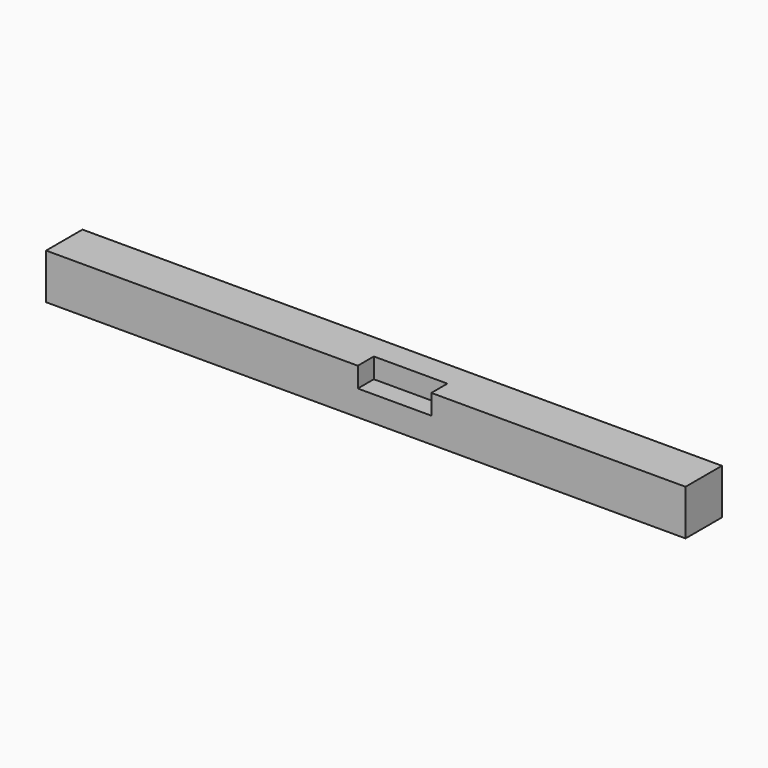
from build123d import *

# Parameters (mm, degrees)
F0_W     = 34
F0_H     = 34
F1_DEPTH = 478
F2_W     = 55
F2_H     = 15
F3_DEPTH = 15


with BuildPart() as f1:
    # F0 (on Right) → F1 (new body)
    with BuildSketch(Plane.YZ):
        with Locations((-17, 17)):
            Rectangle(F0_W, F0_H)
    extrude(amount=-F1_DEPTH)

    # F2 (on face) → F3 (cut)
    with BuildSketch(Plane.XY.offset(34)):
        with Locations((-217.5, -26.5)):
            Rectangle(F2_W, F2_H)
    extrude(amount=-F3_DEPTH, mode=Mode.SUBTRACT)


solid = f1.part
